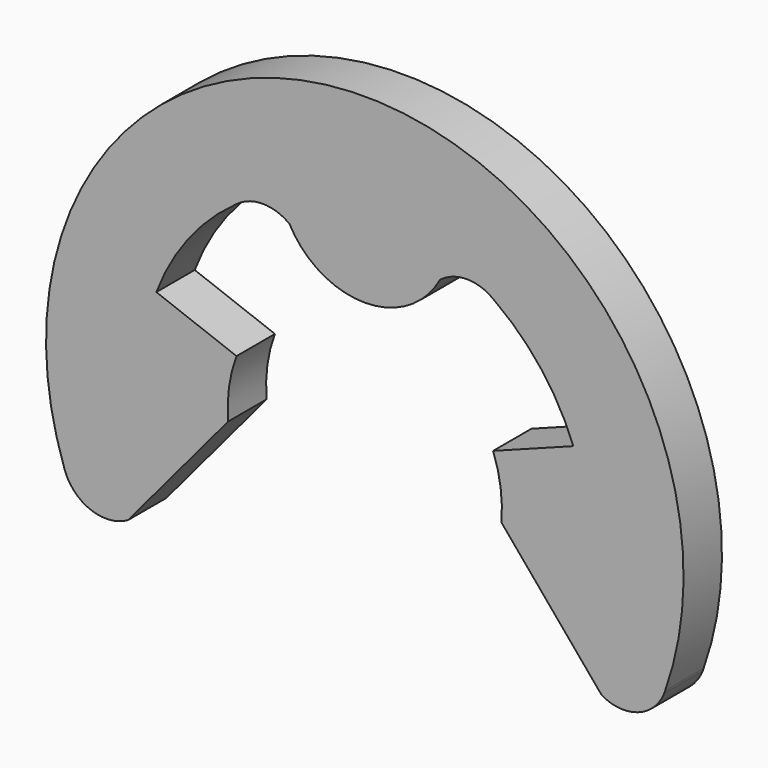
from build123d import *

# Parameters (mm, degrees)
F1_DEPTH = 0.35


with BuildPart() as f1:
    # F0 (on Front) → F1 (new body, symmetric)
    with BuildSketch(Plane.XZ):
        with BuildLine():
            ThreePointArc((3.455305, -1.916591), (3.982638, -1.965333), (4.366053, -1.600025))
            ThreePointArc((4.366053, -1.600025), (4.374065, -1.57799), (4.381966, -1.555915))
            ThreePointArc((4.381966, -1.555915), (0, 4.65), (-4.381966, -1.555915))
            ThreePointArc((-4.381966, -1.555915), (-4.374065, -1.57799), (-4.366053, -1.600025))
            ThreePointArc((-4.366053, -1.600025), (-3.982638, -1.965333), (-3.455305, -1.916591))
            Line((-3.455305, -1.916591), (-1.992481, -0.173266))
            ThreePointArc((-1.992481, -0.173266), (-1.981276, 0.273028), (-1.871353, 0.705718))
            Line((-1.871353, 0.705718), (-3.040948, 1.146792))
            ThreePointArc((-3.040948, 1.146792), (-2.578069, 1.978903), (-1.893894, 2.641149))
            ThreePointArc((-1.893894, 2.641149), (-1.852323, 2.672546), (-1.808332, 2.700451))
            ThreePointArc((-1.808332, 2.700451), (-1.446228, 2.784913), (-1.098439, 2.653401))
            ThreePointArc((-1.098439, 2.653401), (0, 2), (1.098439, 2.653401))
            ThreePointArc((1.098439, 2.653401), (1.446228, 2.784913), (1.808332, 2.700451))
            ThreePointArc((1.808332, 2.700451), (1.852323, 2.672546), (1.893894, 2.641149))
            ThreePointArc((1.893894, 2.641149), (2.578069, 1.978903), (3.040948, 1.146792))
            Line((3.040948, 1.146792), (1.871353, 0.705718))
            ThreePointArc((1.871353, 0.705718), (1.981276, 0.273028), (1.992481, -0.173266))
            Line((1.992481, -0.173266), (3.455305, -1.916591))
        make_face()
        with BuildLine():
            ThreePointArc((4.381966, -1.555915), (4.374065, -1.57799), (4.366053, -1.600025))
            ThreePointArc((4.366053, -1.600025), (4.374414, -1.578116), (4.381966, -1.555915))
        make_face()
        with BuildLine():
            ThreePointArc((-4.366053, -1.600025), (-4.374065, -1.57799), (-4.381966, -1.555915))
            ThreePointArc((-4.381966, -1.555915), (-4.374414, -1.578116), (-4.366053, -1.600025))
        make_face()
        with BuildLine():
            ThreePointArc((1.808332, 2.700451), (1.85135, 2.671143), (1.893894, 2.641149))
            ThreePointArc((1.893894, 2.641149), (1.852323, 2.672546), (1.808332, 2.700451))
        make_face()
        with BuildLine():
            ThreePointArc((-1.808332, 2.700451), (-1.852323, 2.672546), (-1.893894, 2.641149))
            ThreePointArc((-1.893894, 2.641149), (-1.85135, 2.671143), (-1.808332, 2.700451))
        make_face()
    extrude(amount=F1_DEPTH, both=True)


solid = f1.part
